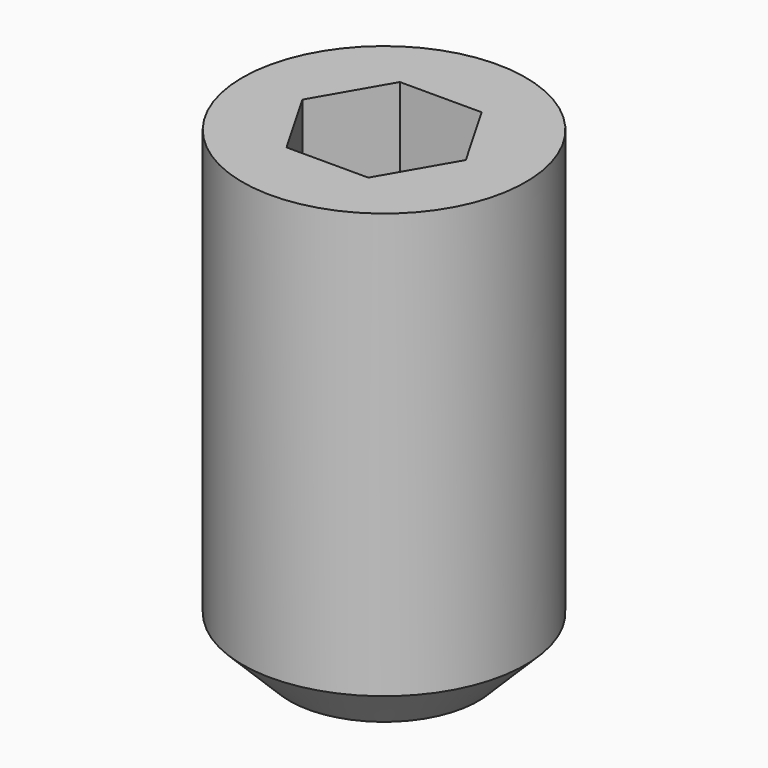
from build123d import *

# Parameters (mm, degrees)
F0_W     = 1.5
F0_H     = 5
F2_SIZE  = 0.5
F4_DEPTH = 2


with BuildPart() as f1:
    # F0 (on Front) → F1 (revolve)
    with BuildSketch(Plane.XZ):
        with Locations((-0.75, 2.5)):
            Rectangle(F0_W, F0_H)
    revolve(axis=Axis((0, 0, 0.869503), (0, 0, -1)))

    # F2
    f2_edges = [f1.edges().sort_by_distance(p)[0] for p in [
        (1.5, 0, 0),
    ]]
    chamfer(f2_edges, length=F2_SIZE)

    # F3 (on face) → F4 (cut)
    with BuildSketch(Plane.XY.offset(5)):
        Polygon((-0.433013, -0.75), (0.433013, -0.75), (0.866025, 0), (0.433013, 0.75), (-0.433013, 0.75), (-0.866025, 0), align=None)
    extrude(amount=-F4_DEPTH, mode=Mode.SUBTRACT)


solid = f1.part
